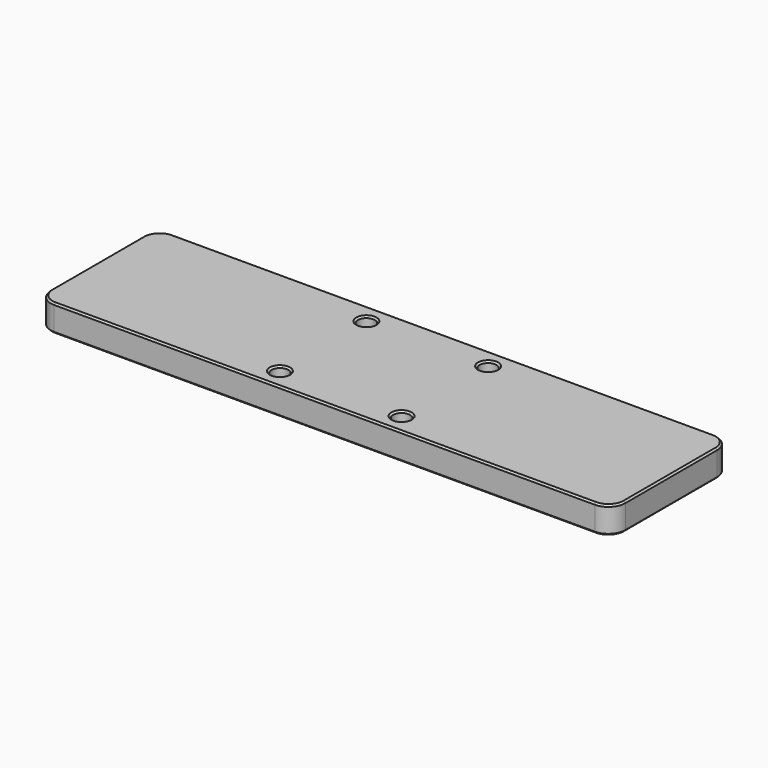
from build123d import *

# Parameters (mm, degrees)
F0_W     = 170
F0_H     = 44
F0_R     = 2.5
F1_DEPTH = 8
F2_R     = 5
F3_SIZE  = 0.5


with BuildPart() as f1:
    # F0 (on Top) → F1 (new body)
    with BuildSketch(Plane.XY):
        with Locations((120.9594160169, -12.5902459205)):
            Rectangle(F0_W, F0_H)
        with Locations((102.9594160169, -28.5902459205)):
            Circle(F0_R, mode=Mode.SUBTRACT)
        with Locations((138.9594160169, -28.5902459205)):
            Circle(F0_R, mode=Mode.SUBTRACT)
        with Locations((102.9594160169, 3.4097540795)):
            Circle(F0_R, mode=Mode.SUBTRACT)
        with Locations((138.9594160169, 3.4097540795)):
            Circle(F0_R, mode=Mode.SUBTRACT)
    extrude(amount=F1_DEPTH)

    # F2
    f2_edges = [f1.edges().sort_by_distance(p)[0] for p in [
        (35.959416, -34.590246, 4),
        (205.959416, -34.590246, 4),
        (205.959416, 9.409754, 4),
        (35.959416, 9.409754, 4),
    ]]
    fillet(f2_edges, radius=F2_R)

    # F3
    f3_edges = [f1.edges().sort_by_distance(p)[0] for p in [
        (120.959416, -34.590246, 8),
        (120.959416, -34.590246, 0),
        (136.459416, -28.590246, 8),
        (204.49495, -33.12578, 8),
        (205.959416, -12.590246, 8),
        (204.49495, 7.945288, 8),
        (120.959416, 9.409754, 8),
        (37.423882, 7.945288, 8),
        (35.959416, -12.590246, 8),
        (37.423882, -33.12578, 8),
        (100.459416, -28.590246, 8),
        (100.459416, 3.409754, 8),
        (136.459416, 3.409754, 8),
        (136.459416, -28.590246, 0),
        (136.459416, 3.409754, 0),
        (100.459416, 3.409754, 0),
        (100.459416, -28.590246, 0),
    ]]
    chamfer(f3_edges, length=F3_SIZE)


solid = f1.part
